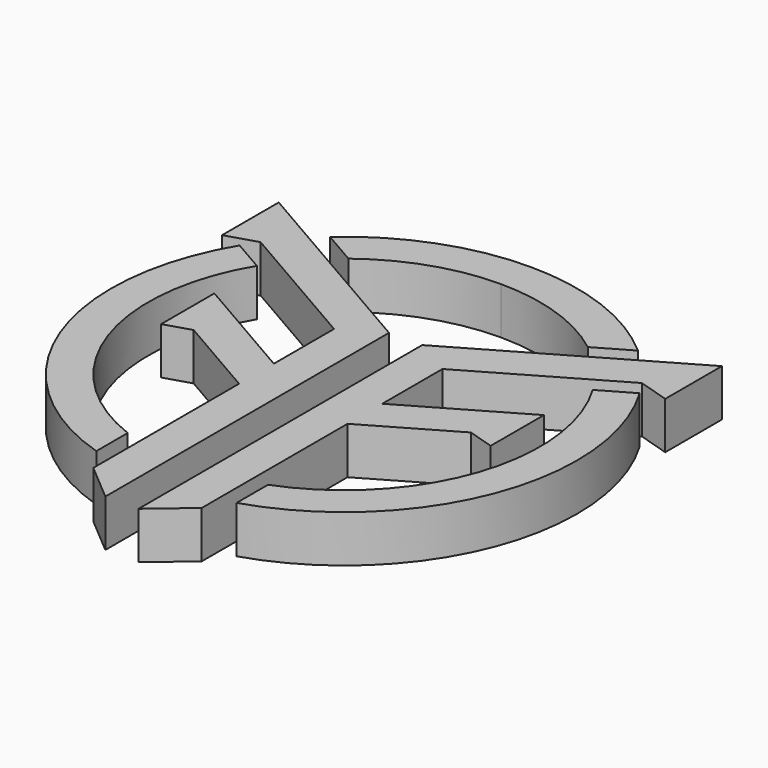
from build123d import *

# Parameters (mm, degrees)
F1_DEPTH = 15


with BuildPart() as f1:
    # F0 (on Top) → F1 (new body)
    with BuildSketch(Plane.XY):
        with BuildLine():
            ThreePointArc((0, 74.30074), (-26.24846, 69.509843), (-49.11193, 55.754985))
            Line((-49.11193, 55.754985), (-38.182369, 49.442302))
            ThreePointArc((-38.182369, 49.442302), (-20.171765, 59.123044), (0, 62.469468))
            ThreePointArc((0, 62.469468), (20.171765, 59.123044), (38.182369, 49.442302))
            Line((38.182369, 49.442302), (49.11193, 55.754985))
            ThreePointArc((49.11193, 55.754985), (26.24846, 69.509843), (0, 74.30074))
        make_face()
        with BuildLine():
            Line((-53.558514, 32.154627), (-63.804915, 38.072731))
            ThreePointArc((-63.804915, 38.072731), (-69.444739, -26.420223), (-22.363259, -70.855378))
            Line((-22.363259, -70.855378), (-22.363259, -58.329402))
            ThreePointArc((-22.363259, -58.329402), (-59.058181, -20.360886), (-53.558514, 32.154627))
        make_face()
        with BuildLine():
            ThreePointArc((22.363259, -70.855378), (69.444739, -26.420223), (63.804915, 38.072731))
            Line((63.804915, 38.072731), (53.558514, 32.154627))
            ThreePointArc((53.558514, 32.154627), (59.058181, -20.360886), (22.363259, -58.329402))
            Line((22.363259, -58.329402), (22.363259, -70.855378))
        make_face()
        Polygon((-17.291291, -78.401586), (-5.291291, -88.590534), (-5.291291, 24.508386), (-70.679369, 62.275157), (-70.679369, 39.670302), (-60.798291, 42.710277), (-17.291291, 17.581554), (-17.291291, -6.416689), (-52.552243, 13.949291), (-52.552243, -7.281204), (-44.223701, -4.718877), (-17.291291, -20.274467), align=None)
        Polygon((17.291291, -6.416689), (17.291291, 17.581554), (60.798291, 42.710277), (70.679369, 39.670302), (70.679369, 62.275157), (5.291291, 24.508386), (5.291291, -88.590534), (17.291291, -78.401586), (17.291291, -20.274467), (44.223701, -4.718877), (52.552243, -7.281204), (52.552243, 13.949291), align=None)
    extrude(amount=F1_DEPTH)


solid = f1.part
